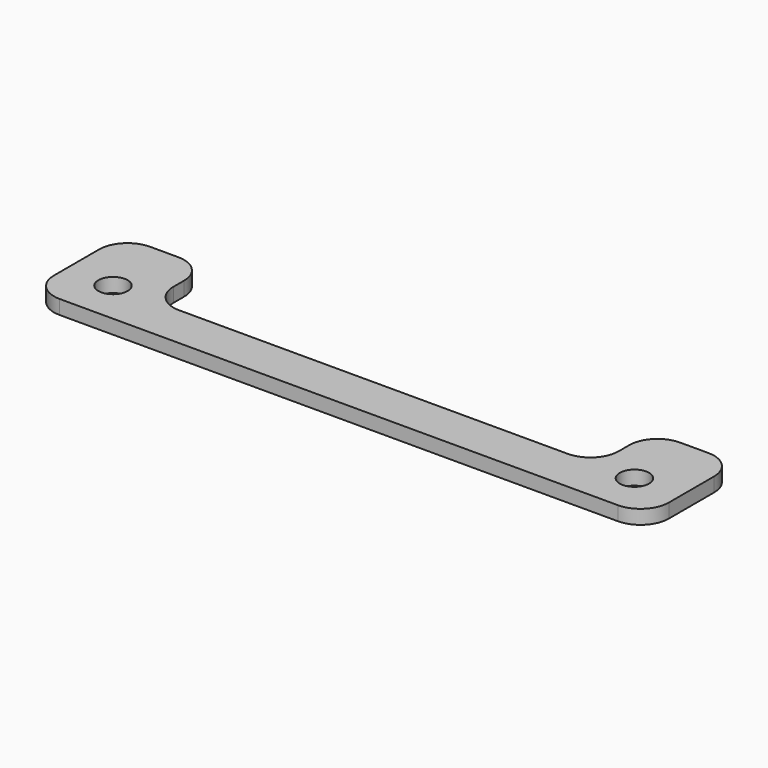
from build123d import *

# Parameters (mm, degrees)
F0_R     = 2.074641
F1_DEPTH = 2


with BuildPart() as f1:
    # F0 (on Top) → F1 (new body)
    with BuildSketch(Plane.XY):
        with BuildLine():
            Line((-39.5, -9.535), (39.5, -9.535))
            ThreePointArc((39.5, -9.535), (42.328427, -8.363427), (43.5, -5.535))
            Line((43.5, -5.535), (43.5, 2.465))
            ThreePointArc((43.5, 2.465), (42.328427, 5.293427), (39.5, 6.465))
            Line((39.5, 6.465), (35.5, 6.465))
            ThreePointArc((35.5, 6.465), (32.671573, 5.293427), (31.5, 2.465))
            Line((31.5, 2.465), (31.5, 0.605))
            ThreePointArc((31.5, 0.605), (30.328427, -2.223427), (27.5, -3.395))
            Line((27.5, -3.395), (-27.5, -3.395))
            ThreePointArc((-27.5, -3.395), (-30.328427, -2.223427), (-31.5, 0.605))
            Line((-31.5, 0.605), (-31.5, 2.465))
            ThreePointArc((-31.5, 2.465), (-32.671573, 5.293427), (-35.5, 6.465))
            Line((-35.5, 6.465), (-39.5, 6.465))
            ThreePointArc((-39.5, 6.465), (-42.328427, 5.293427), (-43.5, 2.465))
            Line((-43.5, 2.465), (-43.5, -5.535))
            ThreePointArc((-43.5, -5.535), (-42.328427, -8.363427), (-39.5, -9.535))
        make_face()
        with Locations((-36.891578, -3.354191)):
            Circle(F0_R, mode=Mode.SUBTRACT)
        with Locations((36.891578, -3.354191)):
            Circle(F0_R, mode=Mode.SUBTRACT)
    extrude(amount=F1_DEPTH)


solid = f1.part
